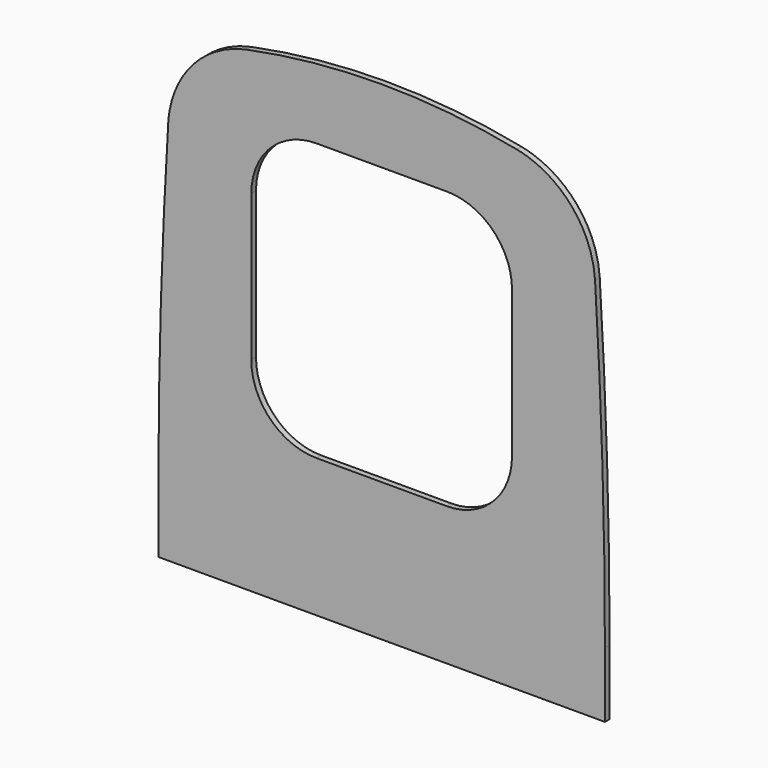
from build123d import *

# Parameters (mm, degrees)
F1_DEPTH = 18
F2_R     = 300
F3_W     = 800
F3_H     = 850
F4_DEPTH = 18.001
F5_R     = 200


with BuildPart() as f1:
    # F0 (on Front) → F1 (new body)
    with BuildSketch(Plane.XZ):
        with BuildLine():
            Line((-685, 200), (-685, 0))
            Line((-685, 0), (685, 0))
            Line((685, 0), (685, 200))
            ThreePointArc((685, 200), (673.746048, 800.421727), (640, 1400))
            ThreePointArc((640, 1400), (0, 1500), (-640, 1400))
            ThreePointArc((-640, 1400), (-673.746048, 800.421727), (-685, 200))
        make_face()
    extrude(amount=F1_DEPTH)

    # F2
    f2_edges = [f1.edges().sort_by_distance(p)[0] for p in [
        (-640, -9, 1400),
        (640, -9, 1400),
    ]]
    fillet(f2_edges, radius=F2_R)

    # F3 (on face) → F4 (cut, through all)
    with BuildSketch(Plane.XZ.offset(18)):
        with Locations((0, 850)):
            Rectangle(F3_W, F3_H)
    extrude(amount=-F4_DEPTH, mode=Mode.SUBTRACT)

    # F5
    f5_edges = [f1.edges().sort_by_distance(p)[0] for p in [
        (-400, -9, 425),
        (-400, -9, 1275),
        (400, -9, 425),
        (400, -9, 1275),
    ]]
    fillet(f5_edges, radius=F5_R)


solid = f1.part
